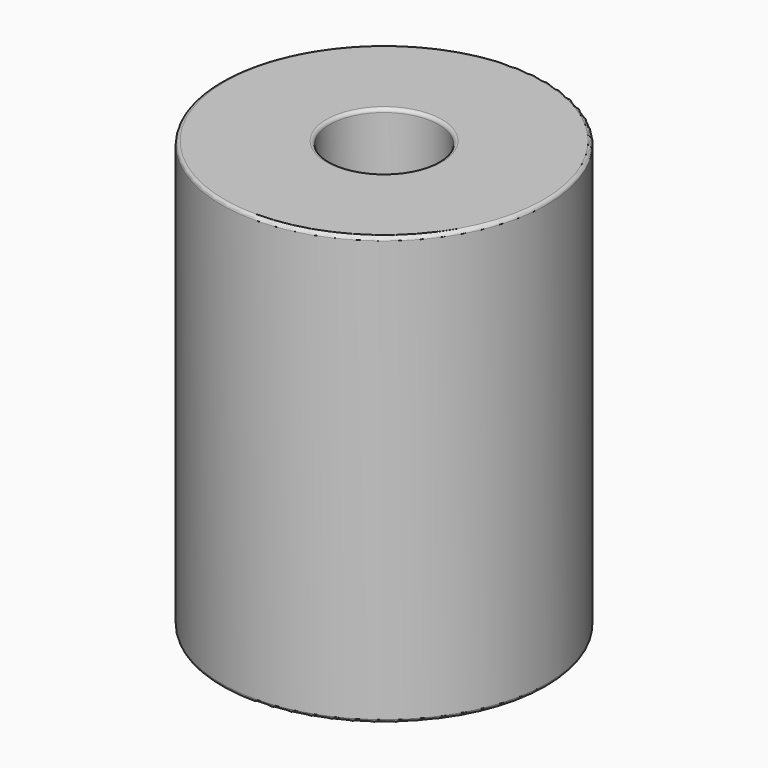
from build123d import *

# Parameters (mm, degrees)
F0_R     = 9.5
F1_DEPTH = 25
F2_R     = 3.175
F3_DEPTH = 7
F4_R     = 4
F5_DEPTH = 18
F6_R     = 0.2


with BuildPart() as f1:
    # F0 (on Top) → F1 (new body)
    with BuildSketch(Plane.XY):
        Circle(F0_R)
    extrude(amount=F1_DEPTH)

    # F2 (on face) → F3 (cut)
    with BuildSketch(Plane.XY.offset(25)):
        Circle(F2_R)
    extrude(amount=-F3_DEPTH, mode=Mode.SUBTRACT)

    # F4 (on face) → F5 (cut)
    with BuildSketch(Plane(origin=(0, 0, 0), x_dir=(1, 0, 0), z_dir=(0, 0, -1))):
        Circle(F4_R)
    extrude(amount=-F5_DEPTH, mode=Mode.SUBTRACT)

    # F6
    f6_edges = [f1.edges().sort_by_distance(p)[0] for p in [
        (-9.5, 0, 25),
        (-9.5, 0, 0),
        (-3.175, 0, 25),
        (-4, 0, 18),
        (-3.175, 0, 18),
        (-4, 0, 0),
    ]]
    fillet(f6_edges, radius=F6_R)


solid = f1.part
